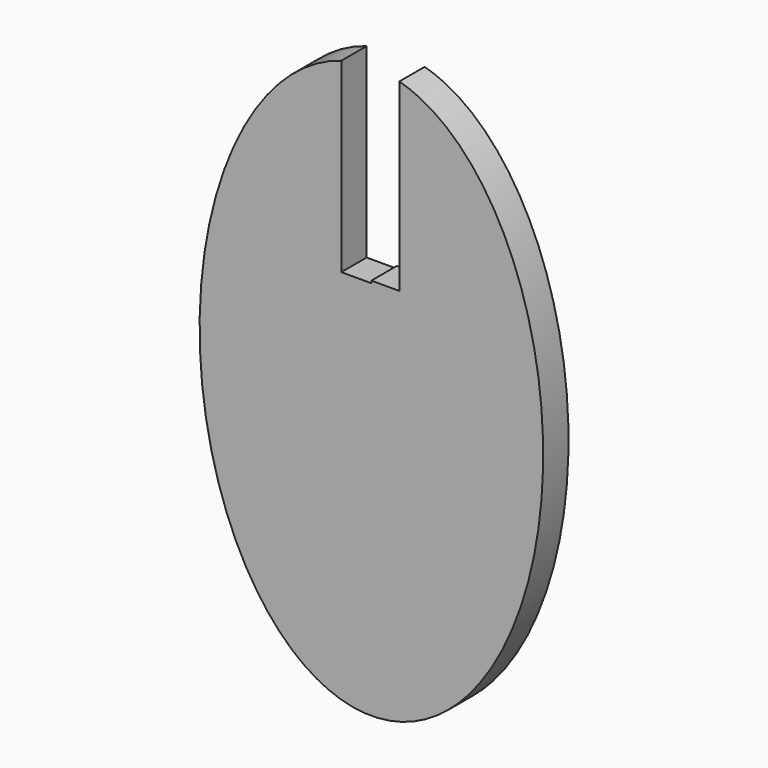
from build123d import *

# Parameters (mm, degrees)
F1_DEPTH = 3


with BuildPart() as f1:
    # F0 (on Front) → F1 (new body)
    with BuildSketch(Plane.XZ):
        with BuildLine():
            Line((-2.8478808235, 9.0083936229), (-2.8478808235, 26.6339387884))
            add(Edge.make_bspline(
                [(-2.8478808235, 26.6339387884), (-27.2866584723, 19.408440191), (-13.5501634631, -14.9703464102), (0.1863315462, -49.3491330113), (13.6621402721, -14.6862445369), (27.1379489981, 19.9766439376), (2.6465363645, 26.6913015987)],
                knots=[0.1759633974, 0.1759633974, 0.1759633974, 2.1572351984, 2.1572351984, 4.1385069994, 4.1385069994, 6.1197788004, 6.1197788004, 6.1197788004], degree=2, weights=[1, 0.5481581203, 1, 0.5481581203, 1, 0.5481581203, 1]))
            Line((2.6465363645, 26.6913015987), (2.6465363645, 9.2284334823))
            Line((2.6465363645, 9.2284334823), (0, 9.2284334823))
            Line((0, 9.2284334823), (0, 9.0083936229))
            Line((0, 9.0083936229), (-2.8478808235, 9.0083936229))
        make_face()
    extrude(amount=F1_DEPTH)


solid = f1.part
